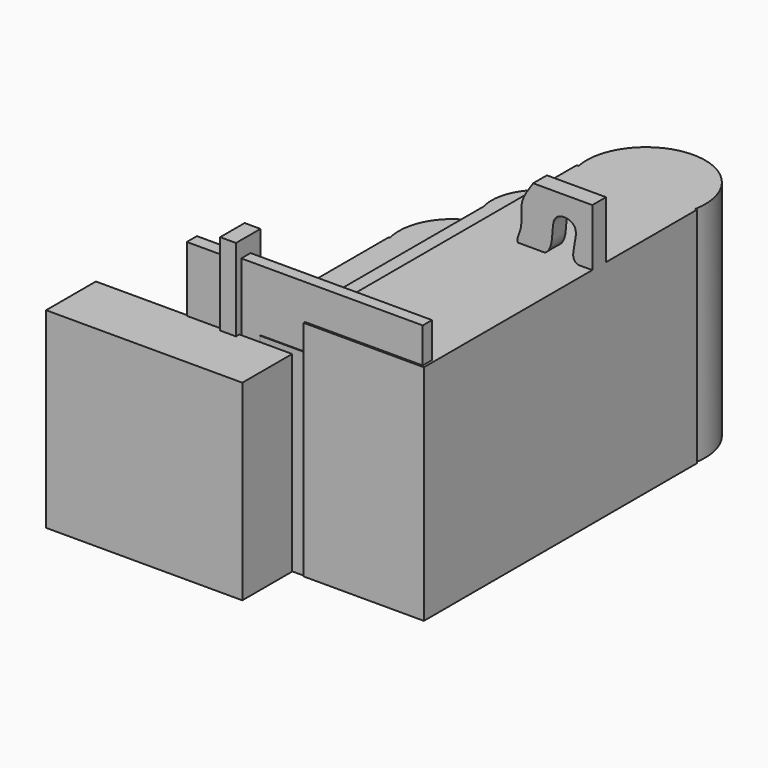
from build123d import *

# Parameters (mm, degrees)
F0_R      = 16.6957172427
F1_DEPTH  = 62.738
F2_W      = 33.8111482561
F2_H      = 95.895409584
F3_DEPTH  = 62.738
F4_R      = 13.2741365626
F5_DEPTH  = 55.372
F6_W      = 12.5334430486
F6_H      = 82.7790144831
F7_DEPTH  = 55.372
F8_R      = 15.0046147667
F9_DEPTH  = 49.022
F10_W     = 14.5737715065
F10_H     = 64.1245916486
F11_DEPTH = 49.022
F13_DEPTH = 4.826
F14_W     = 4.4474024326
F14_H     = 8.5983164608
F15_DEPTH = 76.962
F16_W     = 50.9968847036
F16_H     = 3.2614283264
F17_DEPTH = 72.644
F18_W     = 10.0807789713
F18_H     = 3.5579204559
F19_DEPTH = 72.136
F20_W     = 55.1477968693
F20_H     = 17.4931138754
F21_DEPTH = 53.848


with BuildPart() as f1:
    # F0 (on Top) → F1 (new body)
    with BuildSketch(Plane.XY):
        with Locations((9.0357372537, 35.1227857172)):
            Circle(F0_R)
    extrude(amount=F1_DEPTH)

    # F2 (on Top) → F3 (join)
    with BuildSketch(Plane.XY):
        with Locations((9.035738185, -16.0311460495)):
            Rectangle(F2_W, F2_H)
    extrude(amount=F3_DEPTH)

    # F4 (on Top) → F5 (join)
    with BuildSketch(Plane.XY):
        with Locations((-7.5783608481, 18.2375591248)):
            Circle(F4_R)
    extrude(amount=F5_DEPTH)

    # F6 (on Top) → F7 (join)
    with BuildSketch(Plane.XY):
        with Locations((-14.1365574673, -22.2775219008)):
            Rectangle(F6_W, F6_H)
    extrude(amount=F7_DEPTH)

    # F8 (on Top) → F9 (join)
    with BuildSketch(Plane.XY):
        with Locations((-20.2778875828, 3.7891804241)):
            Circle(F8_R)
    extrude(amount=F9_DEPTH)

    # F10 (on Top) → F11 (join)
    with BuildSketch(Plane.XY):
        with Locations((-27.8562474996, -32.0622958243)):
            Rectangle(F10_W, F10_H)
    extrude(amount=F11_DEPTH)

    # F12 (on Front) → F13 (join)
    with BuildSketch(Plane.XZ):
        with BuildLine():
            add(Edge.make_bspline(
                [(9.3272132799, 78.8237527013), (7.9182853633, 76.8284104093), (5.182542099, 72.9540147279), (6.7369025998, 66.8272809439), (2.8994250841, 61.239011136), (16.8173248262, 61.1527732675), (12.9666307345, 74.2246924308), (23.7803791476, 73.080684286), (18.3812111376, 62.4937182841), (23.573835168, 62.2986103244), (25.9413123131, 62.2096545994)],
                knots=[0, 0, 0, 0, 0.128166769, 0.248863956, 0.3478557526, 0.4875439615, 0.6364878053, 0.7485115106, 0.8853386559, 1, 1, 1, 1], degree=3))
            Line((25.9413123131, 62.2096545994), (25.9413123131, 78.8237527013))
            Line((25.9413123131, 78.8237527013), (9.3272132799, 78.8237527013))
        make_face()
    extrude(amount=F13_DEPTH)

    # F14 (on Top) → F15 (join)
    with BuildSketch(Plane.XY):
        with Locations((-28.3151315525, -60.6435146183)):
            Rectangle(F14_W, F14_H)
    extrude(amount=F15_DEPTH)

    # F16 (on Top) → F17 (join)
    with BuildSketch(Plane.XY):
        with Locations((-0.2964939922, -61.8294868618)):
            Rectangle(F16_W, F16_H)
    extrude(amount=F17_DEPTH)

    # F18 (on Top) → F19 (join)
    with BuildSketch(Plane.XY):
        with Locations((-35.5792222545, -62.2742250562)):
            Rectangle(F18_W, F18_H)
    extrude(amount=F19_DEPTH)

    # F20 (on Top) → F21 (join)
    with BuildSketch(Plane.XY):
        with Locations((-38.8406515121, -72.5032538176)):
            Rectangle(F20_W, F20_H)
    extrude(amount=F21_DEPTH)


solid = f1.part
